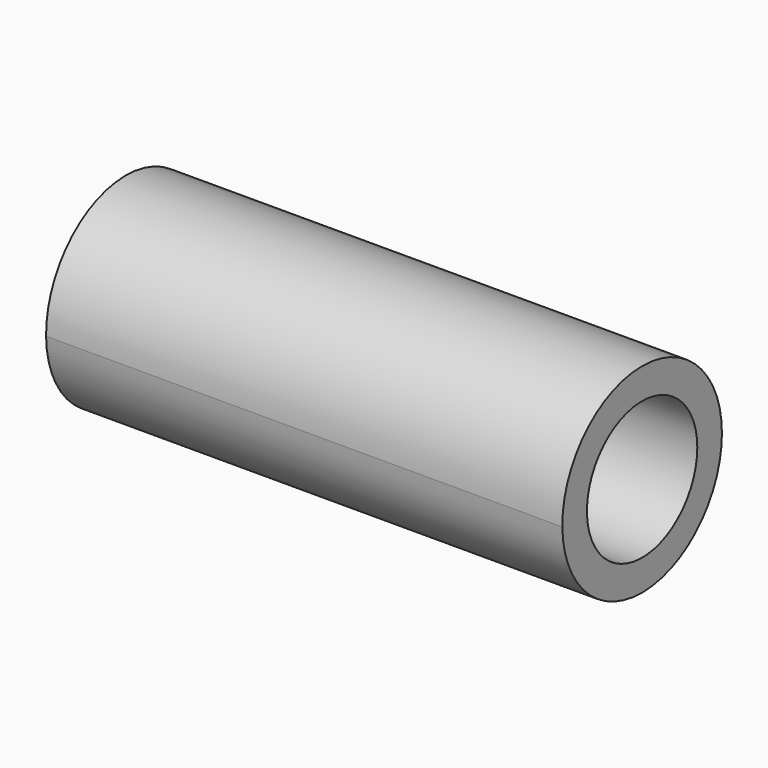
from build123d import *

# Parameters (mm, degrees)
F0_R     = 16.965881
F1_DEPTH = 127


with BuildPart() as f1:
    # F0 (on Right) → F1 (new body)
    with BuildSketch(Plane.YZ):
        with BuildLine():
            ThreePointArc((-24.534538, 34.706954), (0.162527, 10.495847), (24.536692, 35.032))
            ThreePointArc((24.536692, 35.032), (-0.162527, 59.568154), (-24.534538, 34.706954))
        make_face()
        with Locations((0, 35.032)):
            Circle(F0_R, mode=Mode.SUBTRACT)
    extrude(amount=F1_DEPTH)


solid = f1.part
